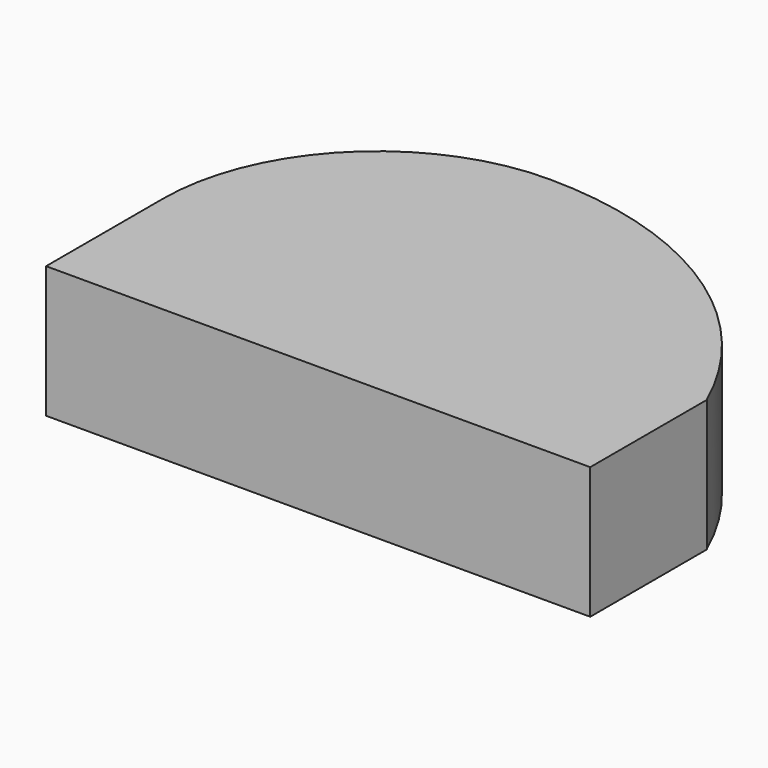
from build123d import *

# Parameters (mm, degrees)
F1_DEPTH = 25.4


with BuildPart() as f1:
    # F0 (on Top) → F1 (new body)
    with BuildSketch(Plane.XY):
        with BuildLine():
            ThreePointArc((0, 41.339227), (-29.231248, 29.231248), (-41.339227, 0))
            Line((-41.339227, 0), (63.535435, 0))
            ThreePointArc((63.535435, 0), (37.900143, 30.094712), (0, 41.339227))
        make_face()
        Polygon((63.535435, 0), (-41.339227, 0), (-41.339227, -28.155096), (63.591465, -28.155096), (63.591465, 0), align=None)
    extrude(amount=F1_DEPTH)


solid = f1.part
